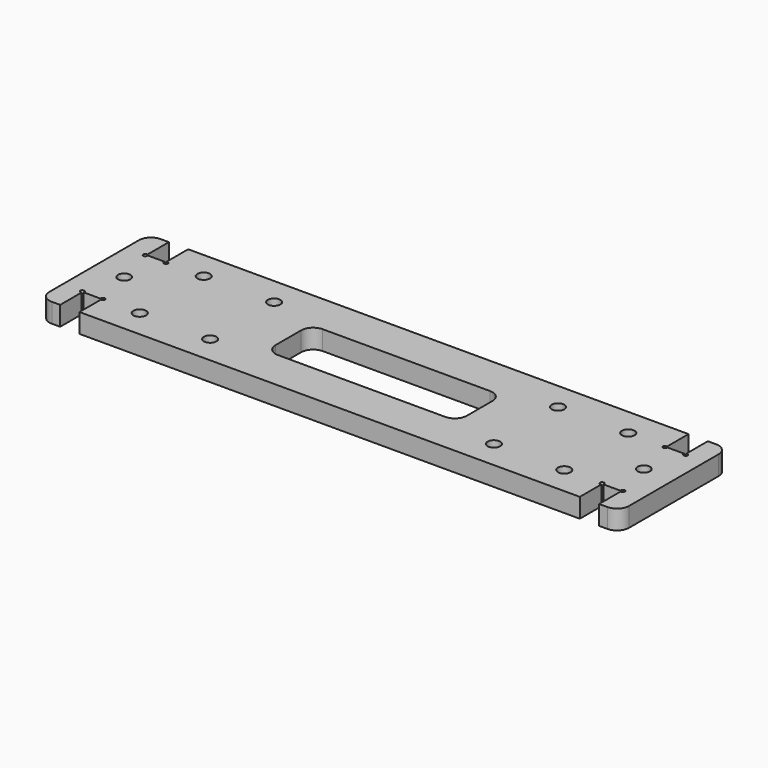
from build123d import *

# Parameters (mm, degrees)
F0_W      = 145
F0_H      = 34
F1_DEPTH  = 4.826
F2_R      = 1.575
F3_DEPTH  = 4.826
F4_R      = 3
F5_W      = 4.826
F5_H      = 7
F5_R      = 1.55
F6_DEPTH  = 4.827
F7_R      = 0.5
F8_DEPTH  = 4.827
F9_W      = 47.85
F9_H      = 14
F10_DEPTH = 4.827
F11_R     = 3


with BuildPart() as f1:
    # F0 (on Top) → F1 (new body)
    with BuildSketch(Plane.XY):
        Rectangle(F0_W, F0_H)
    extrude(amount=F1_DEPTH)

    # F2 (on face) → F3 (cut, through all)
    with BuildSketch(Plane.XY.offset(4.826)):
        with Locations((-53.1, -10)):
            Circle(F2_R)
        with Locations((-35.5, -10)):
            Circle(F2_R)
        with Locations((53.1, -10)):
            Circle(F2_R)
        with Locations((35.5, -10)):
            Circle(F2_R)
        with Locations((-35.5, 10)):
            Circle(F2_R)
        with Locations((-53.1, 10)):
            Circle(F2_R)
        with Locations((35.5, 10)):
            Circle(F2_R)
        with Locations((53.1, 10)):
            Circle(F2_R)
    extrude(amount=-F3_DEPTH, mode=Mode.SUBTRACT)

    # F4
    f4_edges = [f1.edges().sort_by_distance(p)[0] for p in [
        (-72.5, -17, 2.413),
        (-72.5, 17, 2.413),
        (72.5, -17, 2.413),
        (72.5, 17, 2.413),
    ]]
    fillet(f4_edges, radius=F4_R)

    # F5 (on face) → F6 (cut, through all)
    with BuildSketch(Plane.XY.offset(4.826)):
        with Locations((-65, 13.5)):
            Rectangle(F5_W, F5_H)
        with Locations((-65, -13.5)):
            Rectangle(F5_W, F5_H)
        with Locations((-65, 0)):
            Circle(F5_R)
        with Locations((65, -13.5)):
            Rectangle(F5_W, F5_H)
        with Locations((65, 13.5)):
            Rectangle(F5_W, F5_H)
        with Locations((65, 0)):
            Circle(F5_R)
    extrude(amount=-F6_DEPTH, mode=Mode.SUBTRACT)

    # F7 (on face) → F8 (cut, through all)
    with BuildSketch(Plane.XY.offset(4.826)):
        with Locations((-67.589777, 9.823223)):
            Circle(F7_R)
        with Locations((-62.410223, 9.823223)):
            Circle(F7_R)
        with Locations((-67.589777, -9.823223)):
            Circle(F7_R)
        with Locations((-62.410223, -9.823223)):
            Circle(F7_R)
        with Locations((67.589777, 9.823223)):
            Circle(F7_R)
        with Locations((62.410223, 9.823223)):
            Circle(F7_R)
        with Locations((62.410223, -9.823223)):
            Circle(F7_R)
        with Locations((67.589777, -9.823223)):
            Circle(F7_R)
    extrude(amount=-F8_DEPTH, mode=Mode.SUBTRACT)

    # F9 (on face) → F10 (cut, through all)
    with BuildSketch(Plane.XY.offset(4.826)):
        Rectangle(F9_W, F9_H)
    extrude(amount=-F10_DEPTH, mode=Mode.SUBTRACT)

    # F11
    f11_edges = [f1.edges().sort_by_distance(p)[0] for p in [
        (-23.925, 7, 2.413),
        (-23.925, -7, 2.413),
        (23.925, 7, 2.413),
        (23.925, -7, 2.413),
    ]]
    fillet(f11_edges, radius=F11_R)


solid = f1.part
